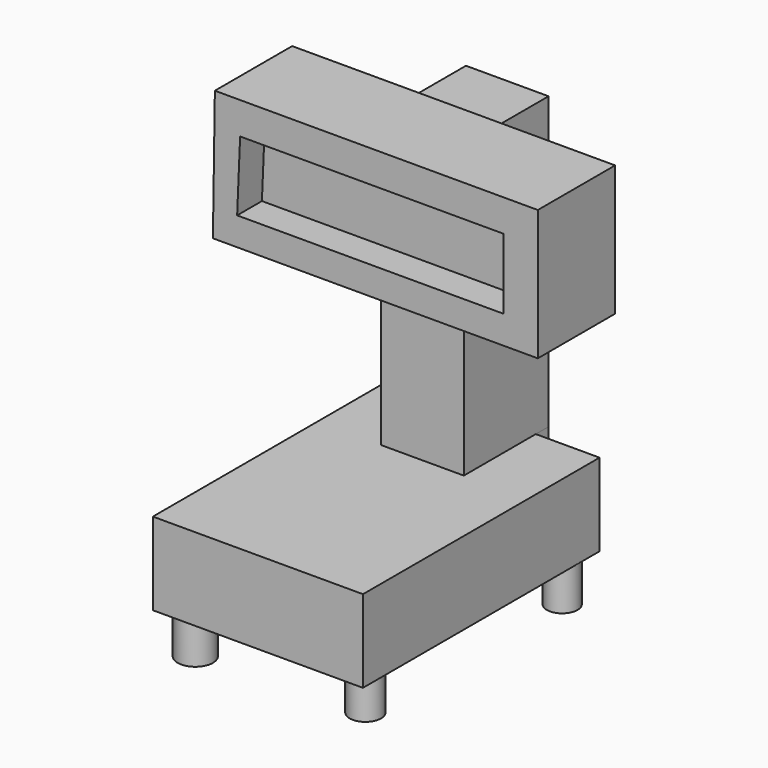
from build123d import *

# Parameters (mm, degrees)
F0_W      = 64.7089081536
F0_H      = 91.0820662975
F2_DEPTH  = 25.4
F1_W      = 25.4400372505
F1_H      = 58.02115798
F3_DEPTH  = 89.6096453071
F5_R      = 4.7250280685
F5_R_2    = 4.8375032474
F5_R_3    = 4.6856287228
F5_R_4    = 5.4357008366
F6_DEPTH  = 12.7
F8_DEPTH  = 29.7622364014
F9_DEPTH  = 25.4
F10_DEPTH = 25.4
F12_DEPTH = 25.4
F13_DEPTH = 34.9412560463


with BuildPart() as f2:
    # F0 (on Top) → F2 (new body)
    with BuildSketch(Plane.XY):
        Rectangle(F0_W, F0_H)
    extrude(amount=F2_DEPTH)

    # F5 (on face) → F6 (join)
    with BuildSketch(Plane(origin=(0, 0, 0), x_dir=(1, 0, 0), z_dir=(0, 0, -1))):
        with Locations((27.3525565863, -37.4112650752)):
            Circle(F5_R)
        with Locations((25.6248470396, 36.2151861191)):
            Circle(F5_R_2)
        with Locations((-25.4932455719, -34.0455546975)):
            Circle(F5_R_3)
        with Locations((-24.6153641492, 38.8868637383)):
            Circle(F5_R_4)
    extrude(amount=F6_DEPTH)


with BuildPart() as f2b:
    # F1 (on Top) → F2, piece 2 (new body)
    with BuildSketch(Plane.XY):
        with Locations((0, 46.8465387821)):
            Rectangle(F1_W, F1_H)
    extrude(amount=F2_DEPTH)


with BuildPart() as f3:
    # F3 (new): a face of the model
    f3_faces = [f2b.part.faces().sort_by_distance(p)[0] for p in [
        (0, 46.8465387821, 25.4),
    ]]
    extrude(f3_faces, amount=F3_DEPTH)

    # F7 (on Front) → F8 (join)
    with BuildSketch(Plane.XZ):
        Polygon((49.7772246599, 116.7258173227), (-49.6982187033, 116.7258173227), (-50.3003709018, 76.5020921826), (49.7772246599, 76.5020921826), align=None)
    extrude(amount=-F8_DEPTH)

    # F9 (cut): a face of the model
    f9_faces = [f3.faces().sort_by_distance(p)[0] for p in [
        (0, 75.8571177721, 70.2048226535),
    ]]
    extrude(f9_faces, amount=-F9_DEPTH, mode=Mode.SUBTRACT)

    # F11 (on face) → F12 (join)
    with BuildSketch(Plane.XZ):
        Polygon((39.2207503319, 106.8511903286), (-41.9160611928, 106.8511903286), (-42.8365767002, 85.1533412933), (39.2207503319, 85.1533412933), align=None)
    extrude(amount=F12_DEPTH)

    # F13 (cut): a face of the model
    f13_faces = [f3.faces().sort_by_distance(p)[0] for p in [
        (-1.5782169969, -25.4, 95.9818676044),
    ]]
    extrude(f13_faces, amount=-F13_DEPTH, mode=Mode.SUBTRACT)


with BuildPart() as f2b_1:
    add(f2b.part)

    # F10 (cut): a face of the model
    f10_faces = [f2b_1.faces().sort_by_distance(p)[0] for p in [
        (0, 75.8571177721, 12.7),
    ]]
    extrude(f10_faces, amount=-F10_DEPTH, mode=Mode.SUBTRACT)


solid = Compound([f2.part, f3.part, f2b_1.part])
